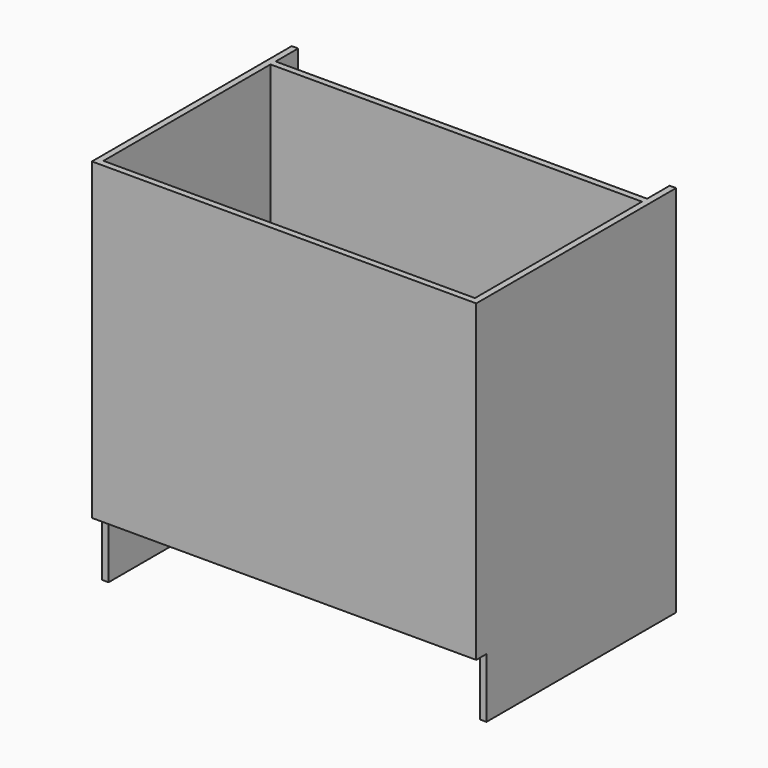
from build123d import *

# Parameters (mm, degrees)
F2_DEPTH  = 15
F1_W      = 885
F1_H      = 570
F3_DEPTH  = 15
F4_W      = 900
F4_H      = 735
F5_DEPTH  = 15
F8_DEPTH  = 15
F10_W     = 870
F10_H     = 720
F11_DEPTH = 15


with BuildPart() as f2:
    # F0 (on Right) → F2 (new body)
    with BuildSketch(Plane.YZ):
        Polygon((0, 735), (0, 0), (15, 0), (15, -140), (570, -140), (570, 0), (570, 735), align=None)
    extrude(amount=F2_DEPTH)

    # F1 (on Top) → F3 (join)
    with BuildSketch(Plane.XY):
        with Locations((442.5, 285)):
            Rectangle(F1_W, F1_H)
    extrude(amount=F3_DEPTH)

    # F4 (on Front) → F5 (join)
    with BuildSketch(Plane.XZ):
        with Locations((450, 367.5)):
            Rectangle(F4_W, F4_H)
    extrude(amount=F5_DEPTH)

    # F7 (on offset) → F8 (join)
    with BuildSketch(Plane.YZ.offset(885)):
        Polygon((0, 735), (0, 0), (15, 0), (15, -140), (570, -140), (570, 735), align=None)
    extrude(amount=F8_DEPTH)

    # F10 (on offset) → F11 (join)
    with BuildSketch(Plane(origin=(0, 504, 0), x_dir=(-1, 0, 0), z_dir=(0, 1, 0))):
        with Locations((-450, 375)):
            Rectangle(F10_W, F10_H)
    extrude(amount=-F11_DEPTH)


solid = f2.part
